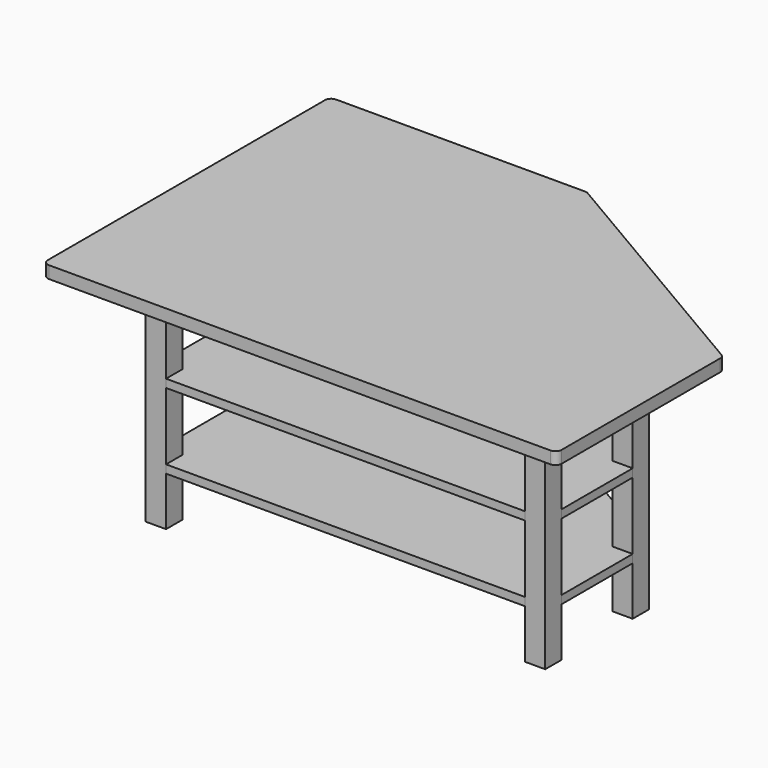
from build123d import *

# Parameters (mm, degrees)
F2_START      = -4.4552753679
F0_W          = 50
F0_H          = 50
F2_DEPTH      = 540
F3_DEPTH      = 4.4552753679
F3_DEPTH_BACK = 25.5447246321
F4_START      = -404.4552753679
F4_DEPTH      = 20
F5_START      = -219.4552753679
F5_DEPTH      = 20


with BuildPart() as f2:
    # F0 (on Top) → F2 (new body)
    with BuildSketch(Plane.XY.offset(F2_START)):
        with Locations((64.2817475274, -546.1079187691)):
            Rectangle(F0_W, F0_H)
    extrude(amount=-F2_DEPTH)


with BuildPart() as f2b:
    # F0 (on Top) → F2, piece 2 (new body)
    with BuildSketch(Plane.XY.offset(F2_START)):
        with Locations((994.2817475274, -546.1079187691)):
            Rectangle(F0_W, F0_H)
    extrude(amount=-F2_DEPTH)


with BuildPart() as f2c:
    # F0 (on Top) → F2, piece 3 (new body)
    with BuildSketch(Plane.XY.offset(F2_START)):
        with Locations((994.2817475274, -278.0126806739)):
            Rectangle(F0_W, F0_H)
    extrude(amount=-F2_DEPTH)


with BuildPart() as f2d:
    # F0 (on Top) → F2, piece 4 (new body)
    with BuildSketch(Plane.XY.offset(F2_START)):
        with Locations((514.2817475274, 3.8920812309)):
            Rectangle(F0_W, F0_H)
    extrude(amount=-F2_DEPTH)


with BuildPart() as f2e:
    # F0 (on Top) → F2, piece 5 (new body)
    with BuildSketch(Plane.XY.offset(F2_START)):
        with Locations((64.2817475274, 3.8920812309)):
            Rectangle(F0_W, F0_H)
    extrude(amount=-F2_DEPTH)


with BuildPart() as f3:
    # F0 (on Top) → F3 (new body, two sides)
    with BuildSketch(Plane.XY) as f3_sk:
        with BuildLine():
            Line((525.2027132718, 168.8920812309), (-85.7182524726, 168.8920812309))
            ThreePointArc((-85.7182524726, 168.8920812309), (-96.3248541904, 164.4986829487), (-100.7182524726, 153.8920812309))
            Line((-100.7182524726, 153.8920812309), (-100.7182524726, -696.1079187691))
            ThreePointArc((-100.7182524726, -696.1079187691), (-96.3248541904, -706.7145204869), (-85.7182524726, -711.1079187691))
            Line((-85.7182524726, -711.1079187691), (1144.2817475274, -711.1079187691))
            ThreePointArc((1144.2817475274, -711.1079187691), (1154.8883492452, -706.7145204869), (1159.2817475274, -696.1079187691))
            Line((1159.2817475274, -696.1079187691), (1159.2817475274, -209.6940182526))
            ThreePointArc((1159.2817475274, -209.6940182526), (1157.2999063312, -202.2423378139), (1151.8780753461, -196.7597303451))
            Line((1151.8780753461, -196.7597303451), (532.7990410905, 166.8263691383))
            ThreePointArc((532.7990410905, 166.8263691383), (529.1388078711, 168.366443369), (525.2027132718, 168.8920812309))
        make_face()
        Polygon((39.2817475274, -21.1079187691), (39.2817475274, 28.8920812309), (89.2817475274, 28.8920812309), (489.2817475274, 28.8920812309), (539.2817475274, 28.8920812309), (1019.2817475274, -253.0126806739), (1019.2817475274, -303.0126806739), (1019.2817475274, -521.1079187691), (1019.2817475274, -571.1079187691), (969.2817475274, -571.1079187691), (89.2817475274, -571.1079187691), (39.2817475274, -571.1079187691), (39.2817475274, -521.1079187691), align=None, mode=Mode.SUBTRACT)
        Polygon((489.2817475274, 28.8920812309), (89.2817475274, 28.8920812309), (89.2817475274, -21.1079187691), (39.2817475274, -21.1079187691), (39.2817475274, -521.1079187691), (89.2817475274, -521.1079187691), (89.2817475274, -571.1079187691), (969.2817475274, -571.1079187691), (969.2817475274, -521.1079187691), (1019.2817475274, -521.1079187691), (1019.2817475274, -303.0126806739), (969.2817475274, -303.0126806739), (969.2817475274, -253.0126806739), (1019.2817475274, -253.0126806739), (539.2817475274, 28.8920812309), (539.2817475274, -21.1079187691), (489.2817475274, -21.1079187691), align=None)
        Polygon((489.2817475274, 28.8920812309), (89.2817475274, 28.8920812309), (89.2817475274, -21.1079187691), (39.2817475274, -21.1079187691), (39.2817475274, -521.1079187691), (89.2817475274, -521.1079187691), (89.2817475274, -571.1079187691), (969.2817475274, -571.1079187691), (969.2817475274, -521.1079187691), (1019.2817475274, -521.1079187691), (1019.2817475274, -303.0126806739), (969.2817475274, -303.0126806739), (969.2817475274, -253.0126806739), (1019.2817475274, -253.0126806739), (539.2817475274, 28.8920812309), (539.2817475274, -21.1079187691), (489.2817475274, -21.1079187691), align=None)
        Polygon((489.2817475274, 28.8920812309), (89.2817475274, 28.8920812309), (89.2817475274, -21.1079187691), (39.2817475274, -21.1079187691), (39.2817475274, -521.1079187691), (89.2817475274, -521.1079187691), (89.2817475274, -571.1079187691), (969.2817475274, -571.1079187691), (969.2817475274, -521.1079187691), (1019.2817475274, -521.1079187691), (1019.2817475274, -303.0126806739), (969.2817475274, -303.0126806739), (969.2817475274, -253.0126806739), (1019.2817475274, -253.0126806739), (539.2817475274, 28.8920812309), (539.2817475274, -21.1079187691), (489.2817475274, -21.1079187691), align=None)
        with Locations((64.2817475274, -546.1079187691)):
            Rectangle(F0_W, F0_H)
        with Locations((994.2817475274, -546.1079187691)):
            Rectangle(F0_W, F0_H)
        with Locations((994.2817475274, -278.0126806739)):
            Rectangle(F0_W, F0_H)
        with Locations((514.2817475274, 3.8920812309)):
            Rectangle(F0_W, F0_H)
        with Locations((64.2817475274, 3.8920812309)):
            Rectangle(F0_W, F0_H)
    extrude(amount=-F3_DEPTH)
    extrude(f3_sk.sketch, amount=F3_DEPTH_BACK)


with BuildPart() as f4:
    # F0 (on Top) → F4 (new body)
    with BuildSketch(Plane.XY.offset(F4_START)):
        Polygon((489.2817475274, 28.8920812309), (89.2817475274, 28.8920812309), (89.2817475274, -21.1079187691), (39.2817475274, -21.1079187691), (39.2817475274, -521.1079187691), (89.2817475274, -521.1079187691), (89.2817475274, -571.1079187691), (969.2817475274, -571.1079187691), (969.2817475274, -521.1079187691), (1019.2817475274, -521.1079187691), (1019.2817475274, -303.0126806739), (969.2817475274, -303.0126806739), (969.2817475274, -253.0126806739), (1019.2817475274, -253.0126806739), (539.2817475274, 28.8920812309), (539.2817475274, -21.1079187691), (489.2817475274, -21.1079187691), align=None)
        Polygon((489.2817475274, 28.8920812309), (89.2817475274, 28.8920812309), (89.2817475274, -21.1079187691), (39.2817475274, -21.1079187691), (39.2817475274, -521.1079187691), (89.2817475274, -521.1079187691), (89.2817475274, -571.1079187691), (969.2817475274, -571.1079187691), (969.2817475274, -521.1079187691), (1019.2817475274, -521.1079187691), (1019.2817475274, -303.0126806739), (969.2817475274, -303.0126806739), (969.2817475274, -253.0126806739), (1019.2817475274, -253.0126806739), (539.2817475274, 28.8920812309), (539.2817475274, -21.1079187691), (489.2817475274, -21.1079187691), align=None)
        Polygon((489.2817475274, 28.8920812309), (89.2817475274, 28.8920812309), (89.2817475274, -21.1079187691), (39.2817475274, -21.1079187691), (39.2817475274, -521.1079187691), (89.2817475274, -521.1079187691), (89.2817475274, -571.1079187691), (969.2817475274, -571.1079187691), (969.2817475274, -521.1079187691), (1019.2817475274, -521.1079187691), (1019.2817475274, -303.0126806739), (969.2817475274, -303.0126806739), (969.2817475274, -253.0126806739), (1019.2817475274, -253.0126806739), (539.2817475274, 28.8920812309), (539.2817475274, -21.1079187691), (489.2817475274, -21.1079187691), align=None)
    extrude(amount=-F4_DEPTH)


with BuildPart() as f5:
    # F0 (on Top) → F5 (new body)
    with BuildSketch(Plane.XY.offset(F5_START)):
        Polygon((489.2817475274, 28.8920812309), (89.2817475274, 28.8920812309), (89.2817475274, -21.1079187691), (39.2817475274, -21.1079187691), (39.2817475274, -521.1079187691), (89.2817475274, -521.1079187691), (89.2817475274, -571.1079187691), (969.2817475274, -571.1079187691), (969.2817475274, -521.1079187691), (1019.2817475274, -521.1079187691), (1019.2817475274, -303.0126806739), (969.2817475274, -303.0126806739), (969.2817475274, -253.0126806739), (1019.2817475274, -253.0126806739), (539.2817475274, 28.8920812309), (539.2817475274, -21.1079187691), (489.2817475274, -21.1079187691), align=None)
        Polygon((489.2817475274, 28.8920812309), (89.2817475274, 28.8920812309), (89.2817475274, -21.1079187691), (39.2817475274, -21.1079187691), (39.2817475274, -521.1079187691), (89.2817475274, -521.1079187691), (89.2817475274, -571.1079187691), (969.2817475274, -571.1079187691), (969.2817475274, -521.1079187691), (1019.2817475274, -521.1079187691), (1019.2817475274, -303.0126806739), (969.2817475274, -303.0126806739), (969.2817475274, -253.0126806739), (1019.2817475274, -253.0126806739), (539.2817475274, 28.8920812309), (539.2817475274, -21.1079187691), (489.2817475274, -21.1079187691), align=None)
        Polygon((489.2817475274, 28.8920812309), (89.2817475274, 28.8920812309), (89.2817475274, -21.1079187691), (39.2817475274, -21.1079187691), (39.2817475274, -521.1079187691), (89.2817475274, -521.1079187691), (89.2817475274, -571.1079187691), (969.2817475274, -571.1079187691), (969.2817475274, -521.1079187691), (1019.2817475274, -521.1079187691), (1019.2817475274, -303.0126806739), (969.2817475274, -303.0126806739), (969.2817475274, -253.0126806739), (1019.2817475274, -253.0126806739), (539.2817475274, 28.8920812309), (539.2817475274, -21.1079187691), (489.2817475274, -21.1079187691), align=None)
    extrude(amount=-F5_DEPTH)


solid = Compound([f2.part, f2b.part, f2c.part, f2d.part, f2e.part, f3.part, f4.part, f5.part])
